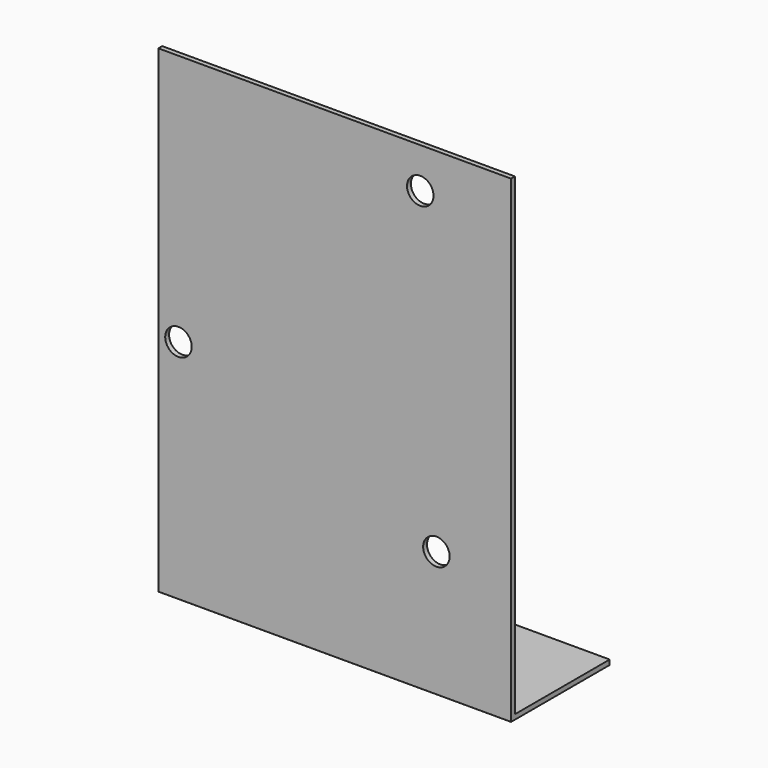
from build123d import *

# Parameters (mm, degrees)
F0_W     = 88.9
F0_H     = 31.115
F1_DEPTH = 1.2192
F2_W     = 88.9
F2_H     = 1.2192
F3_DEPTH = 119.38
F4_R     = 0.0508
F5_R     = 3.3401
F6_DEPTH = 25.4


with BuildPart() as f1:
    # F0 (on Top) → F1 (new body)
    with BuildSketch(Plane.XY):
        Rectangle(F0_W, F0_H)
    extrude(amount=F1_DEPTH)

    # F2 (on face) → F3 (join)
    with BuildSketch(Plane.XY.offset(1.2192)):
        with Locations((0, -14.9479)):
            Rectangle(F2_W, F2_H)
    extrude(amount=F3_DEPTH)

    # F4
    f4_edges = [f1.edges().sort_by_distance(p)[0] for p in [
        (0, -15.5575, 0),
        (0, -14.3383, 1.2192),
    ]]
    fillet(f4_edges, radius=F4_R)

    # F5 (on face) → F6 (cut)
    with BuildSketch(Plane.XZ.offset(15.5575)):
        with Locations((21.59, 110.4392)):
            Circle(F5_R)
        with Locations((25.654, 31.6992)):
            Circle(F5_R)
        with Locations((-39.37, 57.0992)):
            Circle(F5_R)
    extrude(amount=-F6_DEPTH, mode=Mode.SUBTRACT)


solid = f1.part
